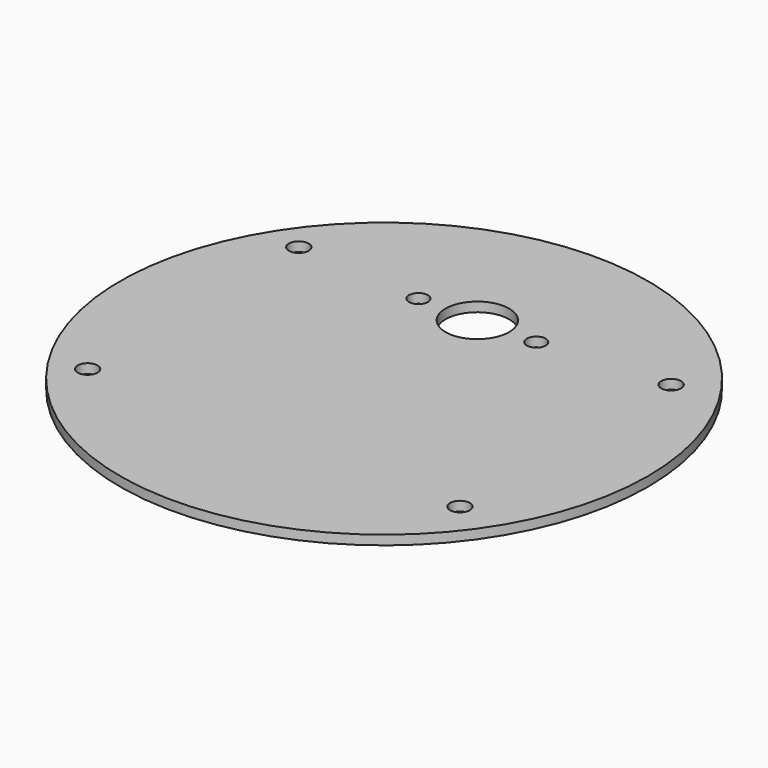
from build123d import *

# Parameters (mm, degrees)
F0_R     = 56
F0_R_2   = 2.1
F0_R_3   = 2
F0_R_4   = 6.75
F1_DEPTH = 2


with BuildPart() as f1:
    # F0 (on Top) → F1 (new body)
    with BuildSketch(Plane.XY):
        with Locations((0.998586, 0)):
            Circle(F0_R)
        with Locations((-39.5, -28)):
            Circle(F0_R_2, mode=Mode.SUBTRACT)
        with Locations((39.5, -28)):
            Circle(F0_R_2, mode=Mode.SUBTRACT)
        with Locations((-12.5, 25.980816)):
            Circle(F0_R_3, mode=Mode.SUBTRACT)
        with Locations((0, 25.980816)):
            Circle(F0_R_4, mode=Mode.SUBTRACT)
        with Locations((-39.5, 28)):
            Circle(F0_R_2, mode=Mode.SUBTRACT)
        with Locations((12.5, 25.980816)):
            Circle(F0_R_3, mode=Mode.SUBTRACT)
        with Locations((39.5, 28)):
            Circle(F0_R_2, mode=Mode.SUBTRACT)
    extrude(amount=F1_DEPTH)


solid = f1.part
